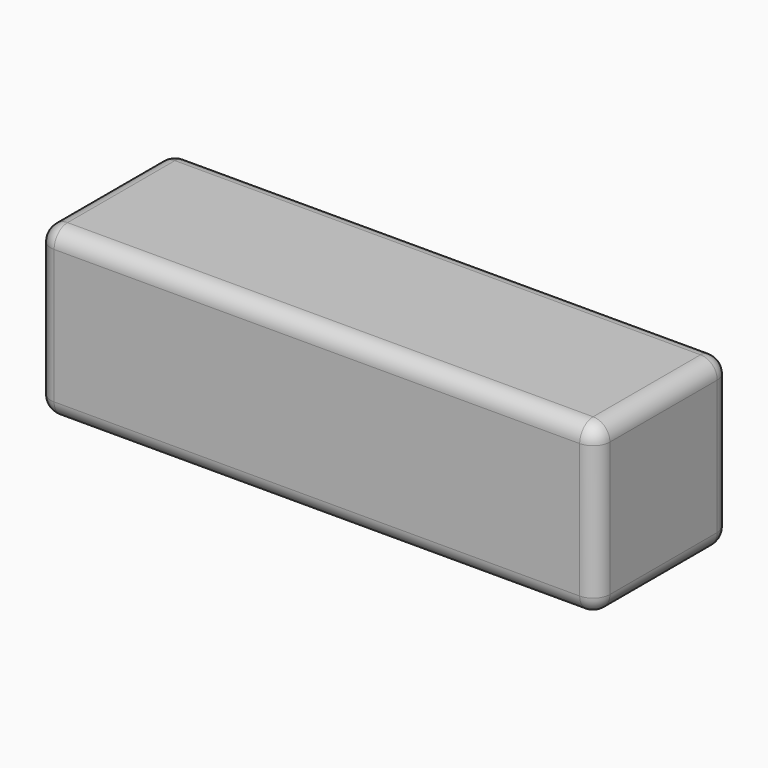
from build123d import *

# Parameters (mm, degrees)
F0_W     = 254
F0_H     = 76.2
F1_DEPTH = 50.8
F2_DEPTH = 25.4
F3_R     = 7.62


with BuildPart() as f1:
    # F0 (on Top) → F1 (new body)
    with BuildSketch(Plane.XY):
        Rectangle(F0_W, F0_H)
    extrude(amount=F1_DEPTH)

    # F2 (add): a face of the model
    f2_faces = [f1.faces().sort_by_distance(p)[0] for p in [
        (0, 0, 50.8),
    ]]
    extrude(f2_faces, amount=F2_DEPTH)

    # F3
    f3_edges = [f1.edges().sort_by_distance(p)[0] for p in [
        (127, 0, 76.2),
        (0, 38.1, 76.2),
        (-127, 0, 76.2),
        (0, -38.1, 76.2),
        (127, -38.1, 38.1),
        (127, 38.1, 38.1),
        (0, -38.1, 0),
        (-127, -38.1, 38.1),
        (-127, 38.1, 38.1),
        (-127, 0, 0),
        (127, 0, 0),
        (0, 38.1, 0),
    ]]
    fillet(f3_edges, radius=F3_R)


solid = f1.part
